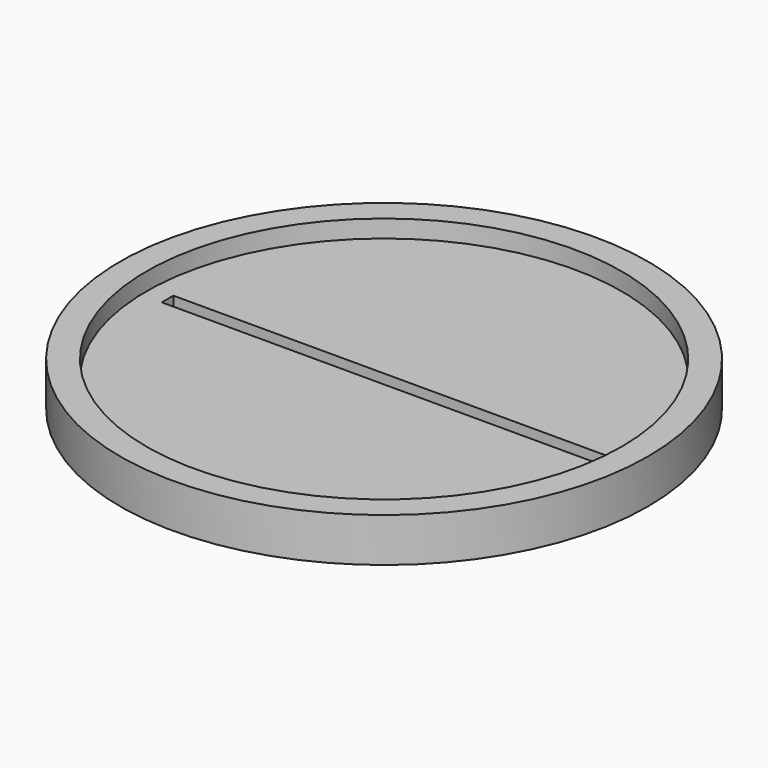
from build123d import *

# Parameters (mm, degrees)
F0_R     = 15.24
F0_R_2   = 13.716
F1_DEPTH = 2.54
F0_W     = 25
F0_H     = 0.8382
F2_DEPTH = 1.524


with BuildPart() as f1:
    # F0 (on Top) → F1 (new body)
    with BuildSketch(Plane.XY):
        Circle(F0_R)
        Circle(F0_R_2, mode=Mode.SUBTRACT)
    extrude(amount=F1_DEPTH)

    # F0 (on Top) → F2 (join)
    with BuildSketch(Plane.XY):
        Circle(F0_R_2)
        Rectangle(F0_W, F0_H, mode=Mode.SUBTRACT)
    extrude(amount=F2_DEPTH)


solid = f1.part
